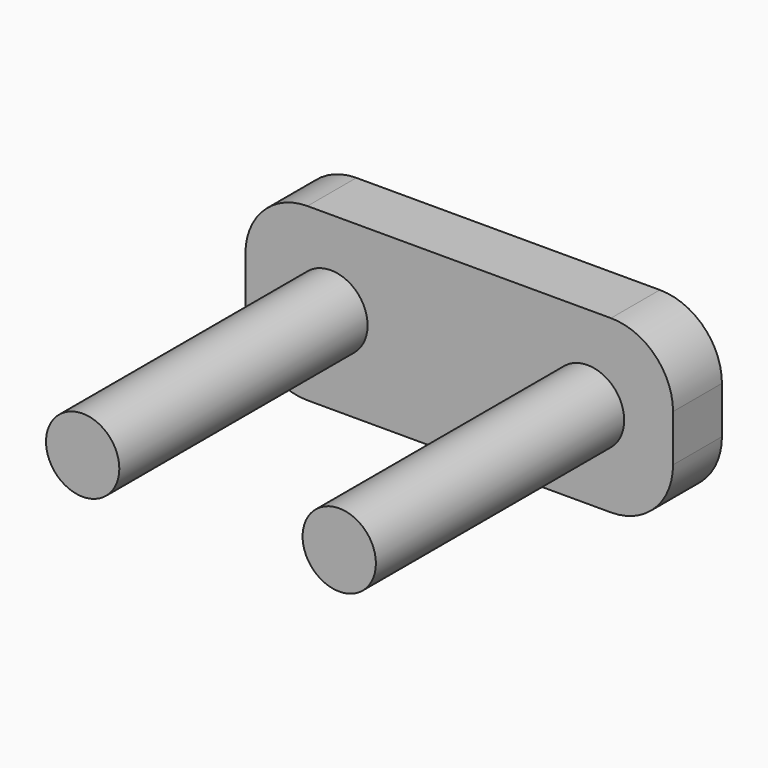
from build123d import *

# Parameters (mm, degrees)
F0_W          = 35
F0_H          = 14
F0_R          = 3
F1_DEPTH      = 5
F2_R          = 5.08
F3_R          = 3
F4_DEPTH      = 25.4
F4_DEPTH_BACK = 4.8514


with BuildPart() as f1:
    # F0 (on Front) → F1 (new body)
    with BuildSketch(Plane.XZ):
        with Locations((17.5, 7)):
            Rectangle(F0_W, F0_H)
        with Locations((7, 7)):
            Circle(F0_R, mode=Mode.SUBTRACT)
        with Locations((28, 7)):
            Circle(F0_R, mode=Mode.SUBTRACT)
    extrude(amount=F1_DEPTH)

    # F2
    f2_edges = [f1.edges().sort_by_distance(p)[0] for p in [
        (35, -2.5, 14),
        (35, -2.5, 0),
        (0, -2.5, 0),
        (0, -2.5, 14),
    ]]
    fillet(f2_edges, radius=F2_R)

    # F3 (on face) → F4 (join, two sides)
    with BuildSketch(Plane.XZ.offset(5)) as f4_sk:
        with Locations((28, 7)):
            Circle(F3_R)
        with Locations((7, 7)):
            Circle(F3_R)
    extrude(amount=F4_DEPTH)
    extrude(f4_sk.sketch, amount=-F4_DEPTH_BACK)


solid = f1.part
